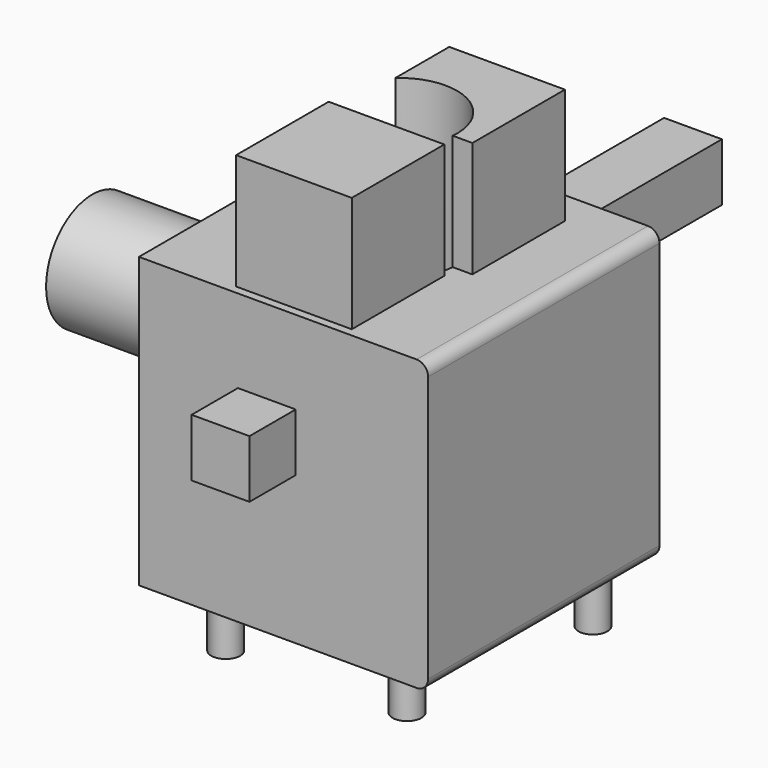
from build123d import *

# Parameters (mm, degrees)
F0_W      = 127
F0_H      = 127
F1_DEPTH  = 127
F2_W      = 50.8
F2_H      = 50.8
F3_DEPTH  = 50.8
F4_R      = 25.4
F5_DEPTH  = 76.2
F6_R      = 24.028023
F7_DEPTH  = 50.8
F8_W      = 25.4
F8_H      = 25.4
F9_DEPTH  = 76.2
F11_D     = 50.8
F12_R     = 5.08
F13_W     = 25.4
F13_H     = 25.4
F14_DEPTH = 25.4
F15_R     = 6.35
F17_DEPTH = 25.4
F18_R     = 6.35
F19_DEPTH = 25.4
F20_R     = 6.35
F21_DEPTH = 25.4
F22_R     = 6.346464
F23_DEPTH = 25.4
F24_W     = 50.8
F24_H     = 50.8
F25_DEPTH = 50.8


with BuildPart() as f1:
    # F0 (on Front) → F1 (new body)
    with BuildSketch(Plane.XZ):
        with Locations((17.358025, 49.486642)):
            Rectangle(F0_W, F0_H)
    extrude(amount=F1_DEPTH)

    # F2 (on face) → F3 (join)
    with BuildSketch(Plane.XY.offset(112.986642)):
        with Locations((25.884503, -40.341979)):
            Rectangle(F2_W, F2_H)
    extrude(amount=F3_DEPTH)

    # F4 (on face) → F5 (join)
    with BuildSketch(Plane(origin=(-46.141975, 0, 0), x_dir=(0, -1, 0), z_dir=(-1, 0, 0))):
        with Locations((57.332661, 58.655478)):
            Circle(F4_R)
    extrude(amount=F5_DEPTH)

    # F6 (on face) → F7 (join)
    with BuildSketch(Plane(origin=(0, 0, 0), x_dir=(-1, 0, 0), z_dir=(0, 1, 0))):
        with Locations((-1.432957, 42.57629)):
            Circle(F6_R)
    extrude(amount=F7_DEPTH)

    # F8 (on face) → F9 (join)
    with BuildSketch(Plane(origin=(0, 0, 0), x_dir=(-1, 0, 0), z_dir=(0, 1, 0))):
        with Locations((-34.625011, 93.562656)):
            Rectangle(F8_W, F8_H)
    extrude(amount=F9_DEPTH)

    # F11 (through all)
    with Locations(Plane(origin=(0, 0, -14.013358), x_dir=(1, 0, 0), z_dir=(0, 0, -1))):
        with Locations((17.358025, 63.5)):
            Hole(F11_D / 2)

    # F12
    f12_edges = [f1.edges().sort_by_distance(p)[0] for p in [
        (80.858025, -63.5, -14.013358),
        (80.858025, -63.5, 112.986642),
    ]]
    fillet(f12_edges, radius=F12_R)

    # F13 (on face) → F14 (join)
    with BuildSketch(Plane.XZ.offset(127)):
        with Locations((10.013793, 63.688007)):
            Rectangle(F13_W, F13_H)
    extrude(amount=F14_DEPTH)

    # F15 (on face) → F17 (join)
    with BuildSketch(Plane(origin=(0, 0, -14.013358), x_dir=(1, 0, 0), z_dir=(0, 0, -1))):
        with Locations((-19.482944, 18.705502)):
            Circle(F15_R)
    extrude(amount=F17_DEPTH)

    # F18 (on face) → F19 (join)
    with BuildSketch(Plane(origin=(0, 0, -14.013358), x_dir=(1, 0, 0), z_dir=(0, 0, -1))):
        with Locations((54.185353, 105.267808)):
            Circle(F18_R)
    extrude(amount=F19_DEPTH)

    # F20 (on face) → F21 (join)
    with BuildSketch(Plane(origin=(0, 0, -14.013358), x_dir=(1, 0, 0), z_dir=(0, 0, -1))):
        with Locations((-23.157163, 108.115725)):
            Circle(F20_R)
    extrude(amount=F21_DEPTH)

    # F22 (on face) → F23 (join)
    with BuildSketch(Plane(origin=(0, 0, -14.013358), x_dir=(1, 0, 0), z_dir=(0, 0, -1))):
        with Locations((63.832581, 15.245846)):
            Circle(F22_R)
    extrude(amount=F23_DEPTH)

    # F24 (on face) → F25 (join)
    with BuildSketch(Plane.XY.offset(112.986642)):
        with Locations((19.040968, -97.99182)):
            Rectangle(F24_W, F24_H)
    extrude(amount=F25_DEPTH)


solid = f1.part
